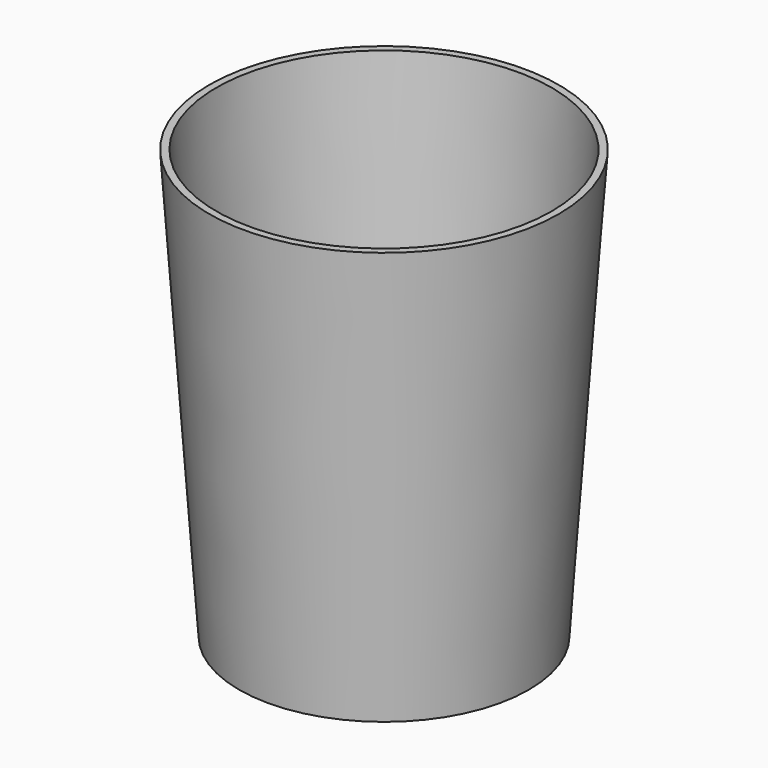
from build123d import *

# Parameters (mm, degrees)
F0_R     = 24
F1_DEPTH = 71
F1_TAPER = -4
F2_T     = -1.2


with BuildPart() as f1:
    # F0 (on Top) → F1 (new body)
    with BuildSketch(Plane.XY):
        Circle(F0_R)
    extrude(amount=F1_DEPTH, taper=F1_TAPER)

    # F2
    f2_openings = [f1.faces().sort_by_distance(p)[0] for p in [
        (0, 0, 71),
    ]]
    offset(amount=F2_T, openings=f2_openings, kind=Kind.INTERSECTION)


solid = f1.part
